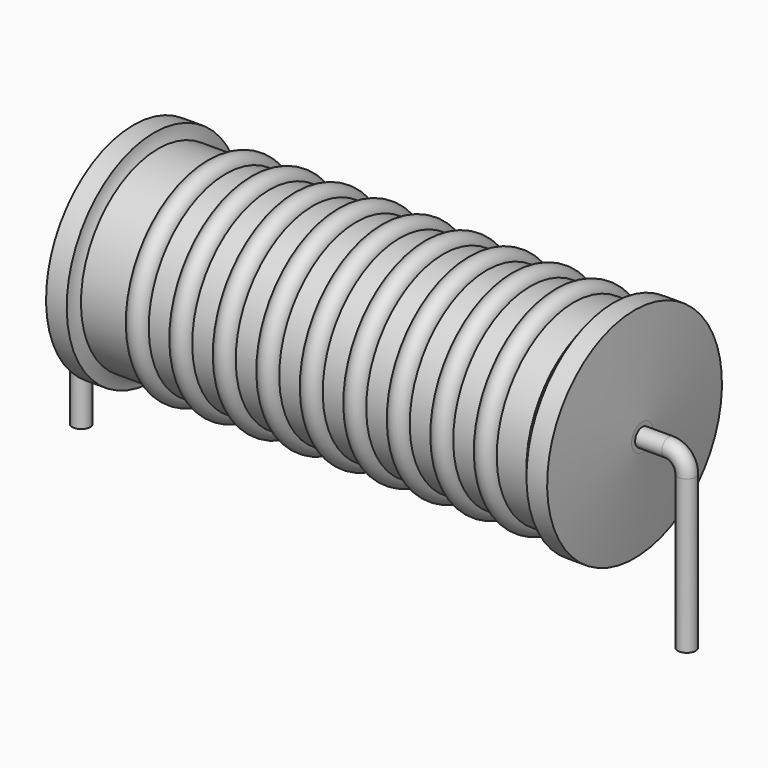
from build123d import *

# Parameters (mm, degrees)
SKETCH_R = 0.45


with BuildPart() as revolution:
    # Sketch002 → Revolution (revolve)
    with BuildSketch(Plane.XZ):
        with BuildLine():
            Line((2.63, 11.1), (3.67, 11.1))
            ThreePointArc((3.67, 11.1), (3.731746, 10.763652), (3.868, 10.45))
            Line((3.868, 10.45), (26.29, 10.45))
            ThreePointArc((26.29, 10.45), (26.583495, 10.748204), (26.81, 11.1))
            Line((26.81, 11.1), (27.85, 11.1))
            ThreePointArc((28.24, 6.275), (28.056939, 8.688465), (27.85, 11.1))
            Line((28.24, 5.6), (28.24, 6.275))
            Line((2.24, 5.6), (28.24, 5.6))
            Line((2.24, 5.6), (2.24, 6.275))
            ThreePointArc((2.63, 11.1), (2.423061, 8.688465), (2.24, 6.275))
        make_face()
    revolve(axis=Axis((2.24, 0, 5.6), (1, 0, 0)))


with BuildPart() as sweep_body:
    # Sweep: sweep along a path in Sketch001
    with BuildLine(Plane.XZ) as sweep_path:
        Line((0, -3), (0, 4.7))
        ThreePointArc((0, 4.7), (0.2636, 5.336392), (0.899989, 5.6))
        Line((0.899989, 5.6), (29.58, 5.6))
        ThreePointArc((29.58, 5.6), (30.216396, 5.336396), (30.48, 4.7))
        Line((30.48, 4.7), (30.48, -3))
    # Sketch → Sweep (sweep)
    with BuildSketch(Plane.XY.offset(-2)):
        Circle(SKETCH_R)
    sweep(path=sweep_path.line)


with BuildPart() as revolution001:
    # Sketch003 → Revolution001 (revolve)
    with BuildSketch(Plane.XZ):
        with BuildLine():
            ThreePointArc((7.289474, 10.346), (6.742105, 10.893368), (6.194737, 10.346))
            Line((5.1, 10.346), (6.194737, 10.346))
            Line((5.1, 10.346), (5.1, 9.246))
            Line((5.1, 9.246), (25.9, 9.246))
            Line((25.9, 9.246), (25.9, 10.346))
            Line((24.805263, 10.346), (25.9, 10.346))
            ThreePointArc((24.805263, 10.346), (24.257895, 10.893368), (23.710526, 10.346))
            Line((22.615789, 10.346), (23.710526, 10.346))
            ThreePointArc((22.615789, 10.346), (22.068421, 10.893368), (21.521053, 10.346))
            Line((20.426316, 10.346), (21.521053, 10.346))
            ThreePointArc((20.426316, 10.346), (19.878947, 10.893368), (19.331579, 10.346))
            Line((18.236842, 10.346), (19.331579, 10.346))
            ThreePointArc((18.236842, 10.346), (17.689474, 10.893368), (17.142105, 10.346))
            Line((16.047368, 10.346), (17.142105, 10.346))
            ThreePointArc((16.047368, 10.346), (15.5, 10.893368), (14.952632, 10.346))
            Line((13.857895, 10.346), (14.952632, 10.346))
            ThreePointArc((13.857895, 10.346), (13.310526, 10.893368), (12.763158, 10.346))
            Line((11.668421, 10.346), (12.763158, 10.346))
            ThreePointArc((11.668421, 10.346), (11.121053, 10.893368), (10.573684, 10.346))
            Line((9.478947, 10.346), (10.573684, 10.346))
            ThreePointArc((9.478947, 10.346), (8.931579, 10.893368), (8.384211, 10.346))
            Line((7.289474, 10.346), (8.384211, 10.346))
        make_face()
    revolve(axis=Axis((2.89, 0, 5.6), (1, 0, 0)))


solid = Compound([revolution.part, sweep_body.part, revolution001.part])
